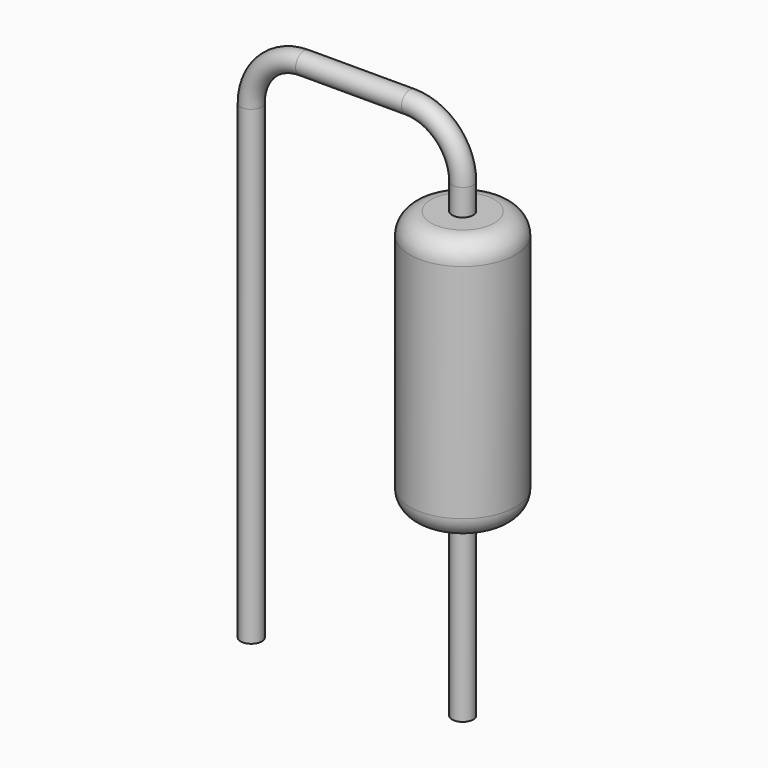
from build123d import *

# Parameters (mm, degrees)
F0_W = 1.27
F0_H = 6.35
F2_R = 0.508
F5_R = 0.254


with BuildPart() as f1:
    # F0 (on Front) → F1 (revolve)
    with BuildSketch(Plane.XZ):
        with Locations((0.635, 3.683)):
            Rectangle(F0_W, F0_H)
    revolve(axis=Axis((0, 0, 3.683), (0, 0, 1)))

    # F2
    f2_edges = [f1.edges().sort_by_distance(p)[0] for p in [
        (-1.27, 0, 6.858),
        (-1.27, 0, 0.508),
    ]]
    fillet(f2_edges, radius=F2_R)

    # F6: sweep along a path in F3
    with BuildLine(Plane.XZ) as f6_path:
        Line((0, -3.81), (0, 7.493))
        ThreePointArc((0, 7.493), (-0.3719743879, 8.3910256121), (-1.27, 8.763))
        Line((-1.27, 8.763), (-3.81, 8.763))
        ThreePointArc((-3.81, 8.763), (-4.7080256121, 8.3910256121), (-5.08, 7.493))
        Line((-5.08, 7.493), (-5.08, -3.81))
    # F5 (on offset) → F6 (sweep)
    with BuildSketch(Plane.XY.offset(-3.81)):
        Circle(F5_R)
    sweep(path=f6_path.line)


solid = f1.part
